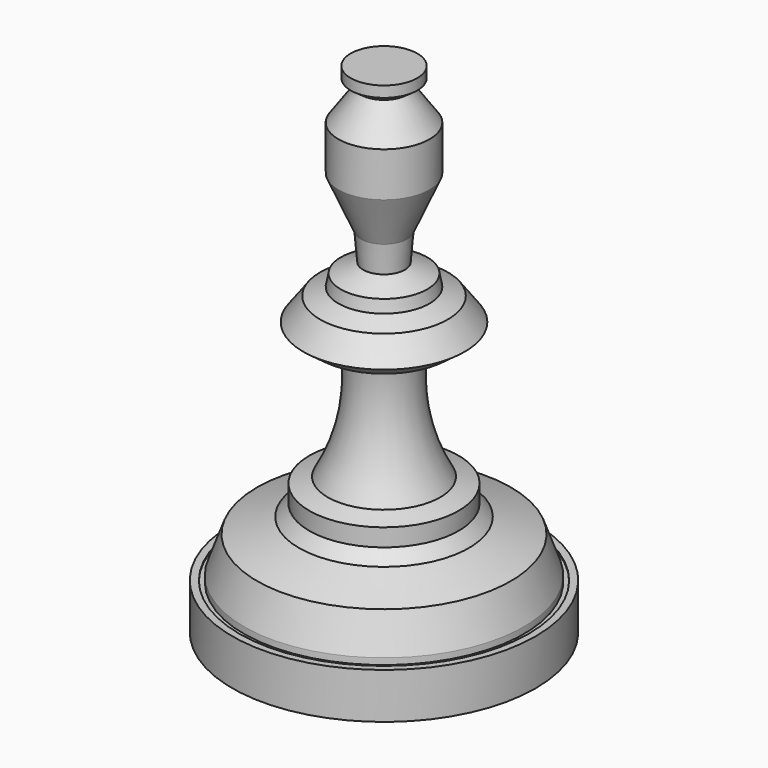
from build123d import *


with BuildPart() as f1:
    # F0 (on Front) → F1 (revolve)
    with BuildSketch(Plane.XZ):
        with BuildLine():
            Line((0, 23.596985), (0, 46.396902))
            Line((0, 46.396902), (-1.524, 46.396902))
            Line((-1.524, 46.396902), (-1.524, 45.898568))
            Line((-1.524, 45.898568), (-1.060334, 45.572424))
            Line((-1.060334, 45.572424), (-2.083267, 44.118157))
            Line((-2.083267, 44.118157), (-2.083267, 42.086157))
            Line((-2.083267, 42.086157), (-1.060334, 39.761247))
            Line((-1.060334, 39.761247), (-0.954387, 38.495674))
            Line((-0.954387, 38.495674), (-1.980138, 38.044356))
            Line((-1.980138, 38.044356), (-2.083383, 37.504349))
            Line((-2.083383, 37.504349), (-2.921175, 37.13573))
            Line((-2.921175, 37.13573), (-3.690932, 36.085954))
            Line((-3.690932, 36.085954), (-2.921175, 35.521522))
            Line((-2.921175, 35.521522), (-1.651175, 35.521522))
            ThreePointArc((-1.651175, 35.521522), (-1.599506, 32.610025), (-2.572744, 29.865523))
            Line((-2.572744, 29.865523), (-3.414092, 29.596292))
            Line((-3.414092, 29.596292), (-3.414092, 28.788597))
            Line((-3.414092, 28.788597), (-3.885247, 28.250134))
            Line((-3.885247, 28.250134), (-5.80352, 27.543404))
            Line((-5.80352, 27.543404), (-6.397612, 25.8994))
            Line((-6.397612, 25.8994), (-6.397612, 25.607178))
            Line((-6.397612, 25.607178), (-6.613662, 25.616618))
            Line((-6.613662, 25.616618), (-6.610802, 25.682061))
            Line((-6.610802, 25.682061), (-6.935794, 25.68985))
            Line((-6.935794, 25.68985), (-6.935794, 23.596985))
            Line((-6.935794, 23.596985), (0, 23.596985))
        make_face()
    revolve(axis=Axis((0, 0, 34.996943), (0, 0, -1)))


solid = f1.part
